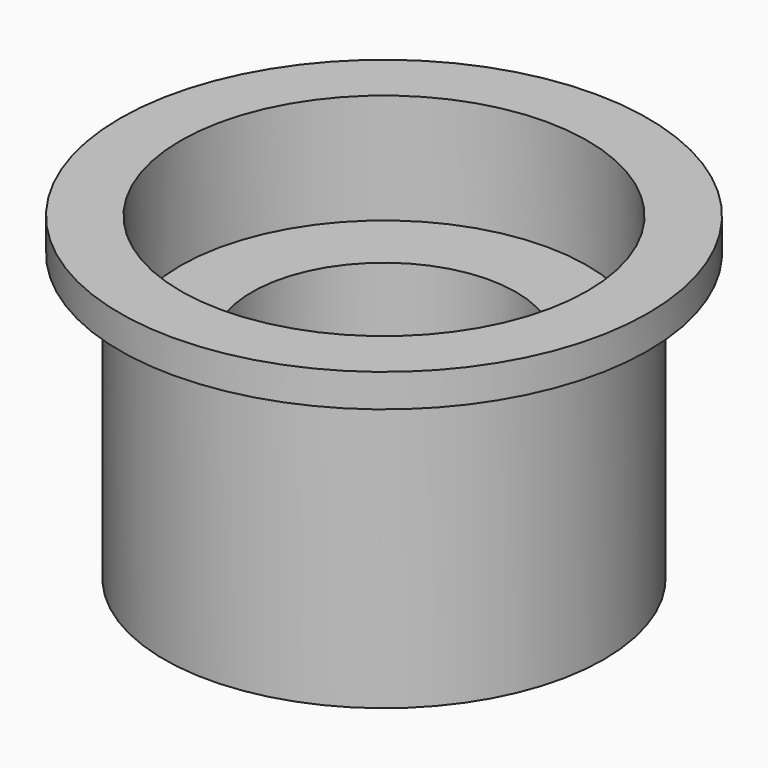
from build123d import *

# Parameters (mm, degrees)
F0_R     = 10
F0_R_2   = 6
F1_DEPTH = 13
F2_R     = 12
F2_R_2   = 6
F3_DEPTH = 1.5
F4_R     = 9.25
F4_R_2   = 6
F5_DEPTH = 5


with BuildPart() as f1:
    # F0 (on Top) → F1 (new body)
    with BuildSketch(Plane.XY):
        Circle(F0_R)
        Circle(F0_R_2, mode=Mode.SUBTRACT)
    extrude(amount=F1_DEPTH)

    # F2 (on face) → F3 (join)
    with BuildSketch(Plane.XY.offset(13)):
        Circle(F2_R)
        Circle(F2_R_2, mode=Mode.SUBTRACT)
    extrude(amount=F3_DEPTH)

    # F4 (on face) → F5 (cut)
    with BuildSketch(Plane.XY.offset(14.5)):
        Circle(F4_R)
        Circle(F4_R_2, mode=Mode.SUBTRACT)
    extrude(amount=-F5_DEPTH, mode=Mode.SUBTRACT)


solid = f1.part
